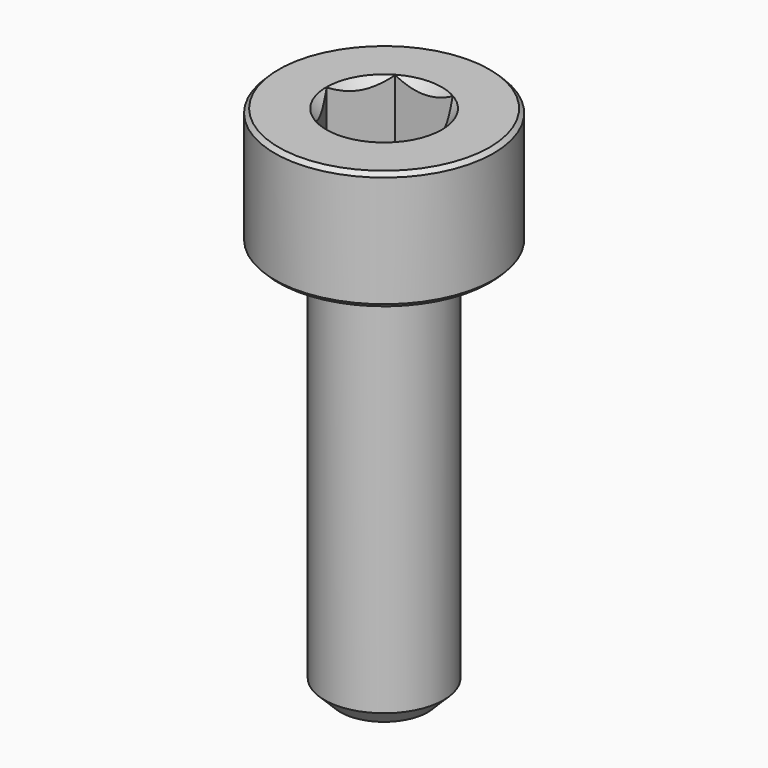
from build123d import *

# Parameters (mm, degrees)
SKETCH041_R     = 3.75
POCKET016_DEPTH = 9.70192
CHAMFER020_SIZE = 0.4
CHAMFER019_SIZE = 0.1


with BuildPart() as pocket016:
    # Sketch039 → Revolution007 (revolve)
    with BuildSketch(Plane.XZ):
        Polygon((0, 0.29908), (2.75, 1.3), (2.75, 10), (0, 10), align=None)
    revolve(axis=Axis((0, 0, 0), (0, 0, 1)))

    # Sketch041 (on Face3 of Revolution007) → Pocket016 (cut, through all)
    with BuildSketch(Plane(origin=(0, 0, 10), x_dir=(-1, 0, 0), z_dir=(0, 0, 1))):
        Circle(SKETCH041_R)
        Polygon((-0.721688, 1.25), (0.721688, 1.25), (1.443376, 0), (0.721688, -1.25), (-0.721688, -1.25), (-1.443376, 0), align=None, mode=Mode.SUBTRACT)
    extrude(amount=-POCKET016_DEPTH, mode=Mode.SUBTRACT)


with BuildPart() as chamfer019:
    # Sketch040 → Revolution006 (revolve)
    with BuildSketch(Plane.XZ):
        Polygon((1.45, 3), (2.75, 3), (2.75, 0), (1.5, 0), (1.5, -10), (0, -10), (0, 1.549999), align=None)
    revolve(axis=Axis((0, 0, 0), (0, 0, 1)))

    # Cut002002: cut Pocket016
    add(pocket016.part, mode=Mode.SUBTRACT)

    # Chamfer020
    chamfer020_edges = [chamfer019.edges().sort_by_distance(p)[0] for p in [
        (-1.5, 0, -10),
    ]]
    chamfer(chamfer020_edges, length=CHAMFER020_SIZE)

    # Chamfer019
    chamfer019_edges = [chamfer019.edges().sort_by_distance(p)[0] for p in [
        (-2.75, 0, 0),
        (-2.75, 0, 3),
    ]]
    chamfer(chamfer019_edges, length=CHAMFER019_SIZE)


solid = chamfer019.part
